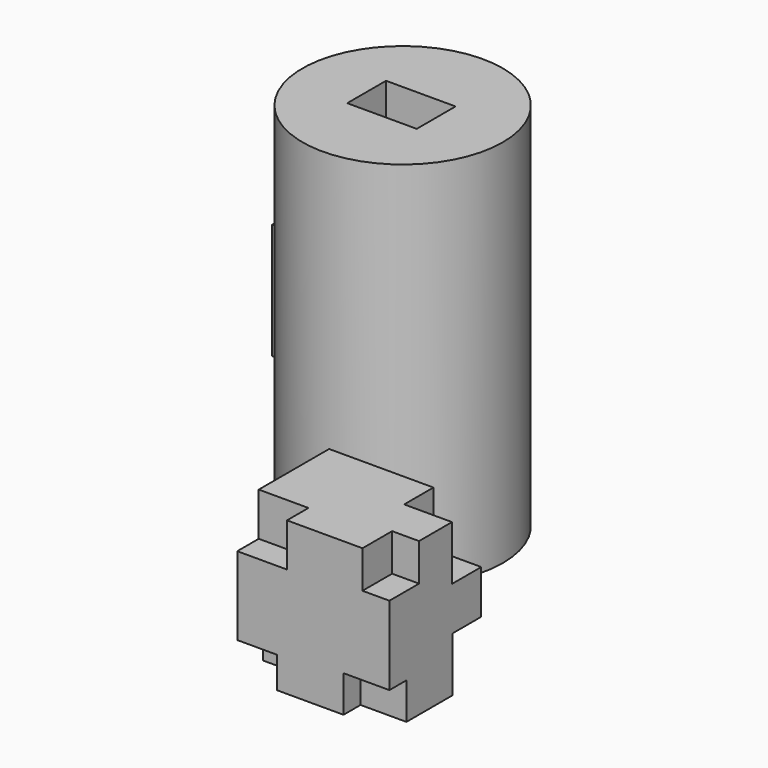
from build123d import *

# Parameters (mm, degrees)
F0_R       = 21.6338167381
F0_W       = 15.0134922005
F0_H       = 10.4811154306
F1_DEPTH   = 80
F2_W       = 30.8768004179
F2_H       = 30.3102582693
F2_R       = 9.0025689527
F3_DEPTH   = 25
F4_R       = 10.2852347547
F5_DEPTH   = 33.2
F6_R       = 8.1171768221
F7_DEPTH   = 45.1
F8_W       = 32.8597128391
F8_H       = 25.4946015775
F9_DEPTH   = 33
F10_W      = 9.9098458886
F10_H      = 7.9152407125
F11_DEPTH  = 5.3
F12_W      = 8.606787771
F12_H      = 6.744377315
F13_DEPTH  = 7.7
F14_W      = 5.8151036501
F14_H      = 8.088218227
F15_DEPTH  = 8.7
F16_W      = 10.8169391751
F16_H      = 9.0107137263
F9_FACE1_W = 32.8597128391
F9_FACE1_H = 33
F3_FACE1_W = 30.8768004179
F3_FACE1_H = 25
F3_FACE1_R = 8.1171768221
F17_DEPTH  = 0.7
F18_W      = 10.7401832938
F18_H      = 9.3529673219
F19_DEPTH  = 5.8
F20_W      = 10.4587227106
F20_H      = 12.7228146344
F21_DEPTH  = 5.4
F22_W      = 10.3251673281
F22_H      = 11.7576403469
F23_DEPTH  = 7.9
F24_W      = 11.257160455
F24_H      = 11.7762871087
F25_DEPTH  = 7.7


with BuildPart() as f1:
    # F0 (on Top) → F1 (new body)
    with BuildSketch(Plane.XY):
        Circle(F0_R)
        with Locations((-0.2832731698, 0)):
            Rectangle(F0_W, F0_H, mode=Mode.SUBTRACT)
    extrude(amount=F1_DEPTH)

    # F20 (on face) → F21 (cut)
    with BuildSketch(Plane(origin=(0, -35.2675393224, 0), x_dir=(-1, 0, 0), z_dir=(0, 1, 0))):
        with Locations((-39.9527437985, 26.6385926828)):
            Rectangle(F20_W, F20_H)
    extrude(amount=F21_DEPTH, mode=Mode.SUBTRACT)


with BuildPart() as f3:
    # F2 (on Top) → F3 (new body)
    with BuildSketch(Plane.XY):
        with Locations((-40.508095175, 49.8561188579)):
            Rectangle(F2_W, F2_H)
        with Locations((-41.7828261852, 49.1479374468)):
            Circle(F2_R, mode=Mode.SUBTRACT)
    extrude(amount=F3_DEPTH)

    # F4 (on face) → F5 (cut)
    with BuildSketch(Plane(origin=(-55.946495384, 0, 0), x_dir=(0, -1, 0), z_dir=(-1, 0, 0))):
        with Locations((-50.6929308176, 11.0856601968)):
            Circle(F4_R)
    extrude(amount=-F5_DEPTH, mode=Mode.SUBTRACT)

    # F6 (on face) → F7 (cut)
    with BuildSketch(Plane(origin=(0, 65.0112479925, 0), x_dir=(-1, 0, 0), z_dir=(0, 1, 0))):
        with Locations((40.4397249222, 12.7663575113)):
            Circle(F6_R)
    extrude(amount=-F7_DEPTH, mode=Mode.SUBTRACT)


with BuildPart() as f9:
    # F8 (on Top) → F9 (new body)
    with BuildSketch(Plane.XY):
        with Locations((28.7522487342, -48.0148401111)):
            Rectangle(F8_W, F8_H)
    extrude(amount=F9_DEPTH)

    # F10 (on face) → F11 (cut)
    with BuildSketch(Plane.XZ.offset(60.7621408999)):
        with Locations((40.2271822095, 3.9576203562)):
            Rectangle(F10_W, F10_H)
    extrude(amount=-F11_DEPTH, mode=Mode.SUBTRACT)

    # F12 (on face) → F13 (cut)
    with BuildSketch(Plane.XZ.offset(60.7621408999)):
        with Locations((16.6257862002, 3.3721886575)):
            Rectangle(F12_W, F12_H)
    extrude(amount=-F13_DEPTH, mode=Mode.SUBTRACT)

    # F14 (on face) → F15 (cut)
    with BuildSketch(Plane.XZ.offset(60.7621408999)):
        with Locations((42.2745533288, 28.9558908865)):
            Rectangle(F14_W, F14_H)
    extrude(amount=-F15_DEPTH, mode=Mode.SUBTRACT)

    # F16 (on face) + F9_face1 (on face) + F9_face (on face) + F3_face1 (on face) → F17 (cut)
    with BuildSketch(Plane.XZ.offset(60.7621408999)):
        with Locations((17.7308619022, 28.4946431369)):
            Rectangle(F16_W, F16_H)
        Polygon((39.3670015037, 33), (23.1393314898, 33), (23.1393314898, 23.9892862737), (12.3223923147, 23.9892862737), (12.3223923147, 6.744377315), (20.9291800857, 6.744377315), (20.9291800857, 0), (35.2722592652, 0), (35.2722592652, 7.9152407125), (45.1821051538, 7.9152407125), (45.1821051538, 24.911781773), (39.3670015037, 24.911781773), align=None)
    with BuildSketch(Plane(origin=(28.7522487342, -35.2675393224, 16.5), x_dir=(-1, 0, 0), z_dir=(0, 1, 0))):
        Rectangle(F9_FACE1_W, F9_FACE1_H)
    with BuildSketch(Plane(origin=(28.7522487342, -60.7621408999, 16.5), x_dir=(1, 0, 0), z_dir=(0, -1, 0))):
        Polygon((-7.8230686486, -16.5), (6.5200105309, -16.5), (6.5200105309, -8.5847592875), (16.4298564196, -8.5847592875), (16.4298564196, 8.411781773), (10.6147527695, 8.411781773), (10.6147527695, 16.5), (-16.4298564196, 16.5), (-16.4298564196, -9.755622685), (-7.8230686486, -9.755622685), align=None)
    with BuildSketch(Plane(origin=(-40.508095175, 65.0112479925, 12.5), x_dir=(-1, 0, 0), z_dir=(0, 1, 0))):
        Rectangle(F3_FACE1_W, F3_FACE1_H)
        with Locations((-0.0683702528, 0.2663575113)):
            Circle(F3_FACE1_R, mode=Mode.SUBTRACT)
    extrude(amount=-F17_DEPTH, dir=(0, -1, 0), mode=Mode.SUBTRACT)

    # F18 (on face) → F19 (cut)
    with BuildSketch(Plane.XZ.offset(60.0621408999)):
        with Locations((17.6924839616, 28.3235163391)):
            Rectangle(F18_W, F18_H)
    extrude(amount=-F19_DEPTH, mode=Mode.SUBTRACT)

    # F22 (on face) → F23 (cut)
    with BuildSketch(Plane(origin=(0, -35.2675393224, 0), x_dir=(-1, 0, 0), z_dir=(0, 1, 0))):
        with Locations((-40.0195214897, 27.1211798266)):
            Rectangle(F22_W, F22_H)
    extrude(amount=-F23_DEPTH, mode=Mode.SUBTRACT)

    # F24 (on face) → F25 (cut)
    with BuildSketch(Plane(origin=(0, -35.2675393224, 0), x_dir=(-1, 0, 0), z_dir=(0, 1, 0))):
        with Locations((-39.5535249263, 5.8881435543)):
            Rectangle(F24_W, F24_H)
    extrude(amount=-F25_DEPTH, mode=Mode.SUBTRACT)


solid = Compound([f1.part, f3.part, f9.part])
